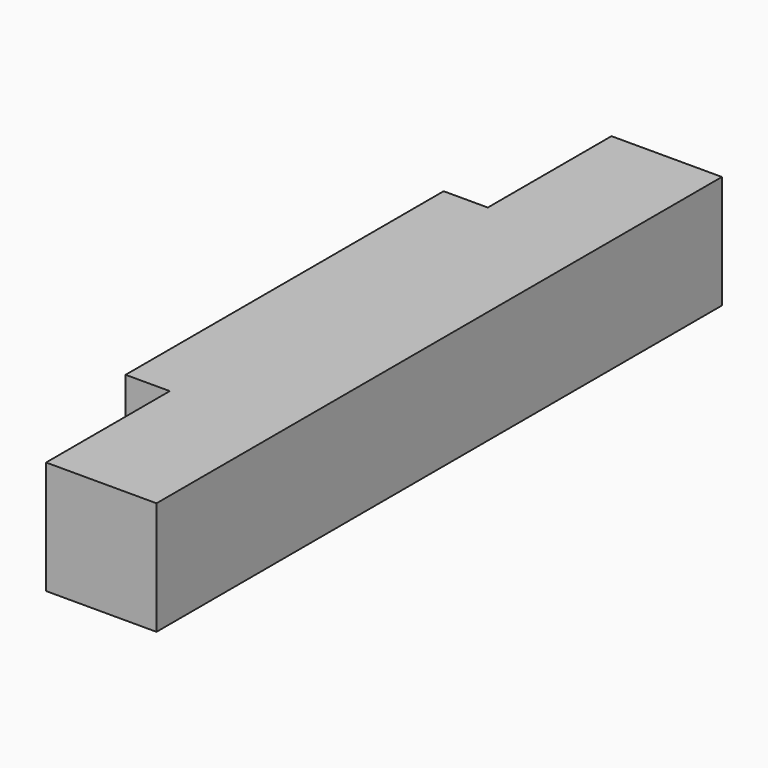
from build123d import *

# Parameters (mm, degrees)
F0_W     = 406.4
F0_H     = 65.0875
F1_DEPTH = 88.9
F2_W     = 25.4
F2_H     = 88.9
F3_DEPTH = 65.0885


with BuildPart() as f1:
    # F0 (on Right) → F1 (new body)
    with BuildSketch(Plane.YZ):
        Rectangle(F0_W, F0_H)
    extrude(amount=F1_DEPTH)

    # F2 (on face) → F3 (cut, through all)
    with BuildSketch(Plane.XY.offset(32.54375)):
        with Locations((12.7, 158.75)):
            Rectangle(F2_W, F2_H)
        with Locations((12.7, -158.75)):
            Rectangle(F2_W, F2_H)
    extrude(amount=-F3_DEPTH, mode=Mode.SUBTRACT)


solid = f1.part
